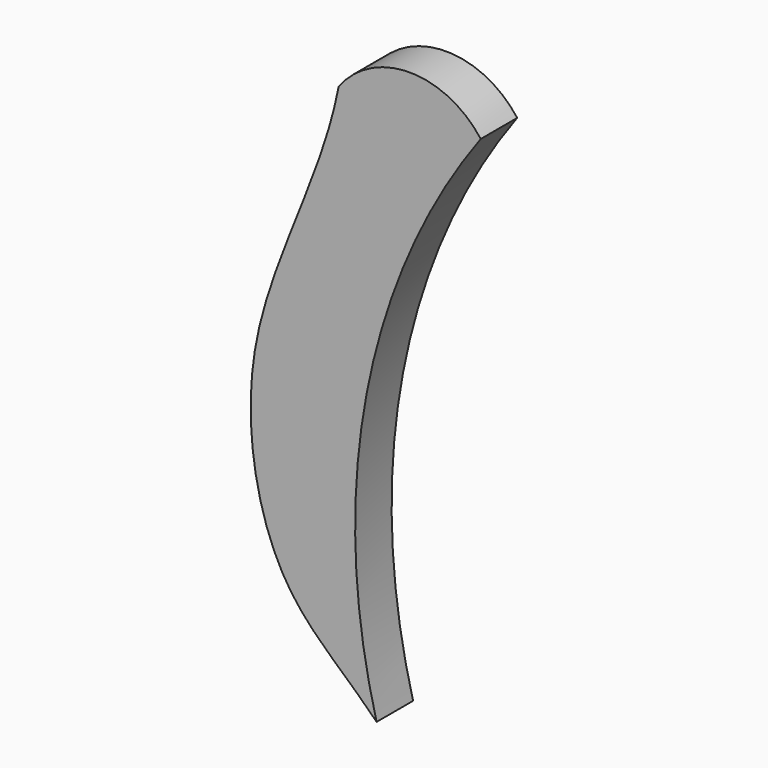
from build123d import *

# Parameters (mm, degrees)
F1_DEPTH = 4.3434


with BuildPart() as f1:
    # F0 (on Front) → F1 (new body)
    with BuildSketch(Plane.XZ):
        with BuildLine():
            ThreePointArc((-19.3963646889, -59.9209107459), (-20.3566524263, -32.7342327885), (-9.4757593483, -7.8014476107))
            ThreePointArc((-9.4757593483, -7.8014476107), (-16.2417409599, -4.4157303775), (-23.0077225715, -7.8014476107))
            add(Edge.make_bspline(
                [(-19.3963646889, -59.9209107459), (-22.8666178291, -56.3806918441), (-29.7395780168, -52.0154811904), (-33.6962882516, -30.8237382528), (-24.638472972, -16.2751088341), (-23.0077225715, -7.8014476107)],
                knots=[0, 0, 0, 0, 0.2754600271, 0.6090079424, 1, 1, 1, 1], degree=3))
        make_face()
    extrude(amount=F1_DEPTH)


solid = f1.part
